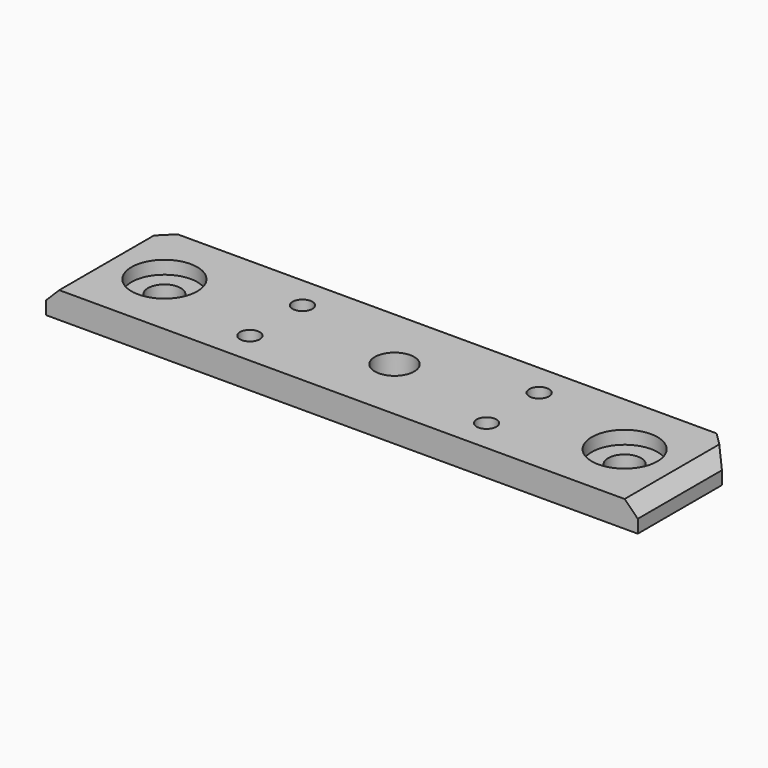
from build123d import *

# Parameters (mm, degrees)
CYLINDER1669_R     = 2.5
CYLINDER1669_DEPTH = 20
CYLINDER1668_R     = 2.5
CYLINDER1668_DEPTH = 20
CYLINDER1667_R     = 5
CYLINDER1667_DEPTH = 5
CYLINDER1666_R     = 5
CYLINDER1666_DEPTH = 5
CYLINDER1647_R     = 1.5
CYLINDER1647_DEPTH = 60
CYLINDER1648_R     = 1.5
CYLINDER1648_DEPTH = 60
CYLINDER1649_R     = 1.5
CYLINDER1649_DEPTH = 60
CYLINDER1646_R     = 1.5
CYLINDER1646_DEPTH = 60
CYLINDER1619_R     = 3
CYLINDER1619_DEPTH = 48
BOX644_W           = 90
BOX644_H           = 20
BOX644_DEPTH       = 4
CHAMFER042_SIZE    = 4
CHAMFER043_SIZE    = 2


with BuildPart() as obj1:
    # Cylinder1669 → Cylinder1669 (new body)
    with BuildSketch(Plane(origin=(-35, 90, -59), x_dir=(1, 0, 0), z_dir=(0, 0, 1))):
        Circle(CYLINDER1669_R)
    extrude(amount=CYLINDER1669_DEPTH)


with BuildPart() as compound819:
    # Cylinder1668 → Cylinder1668 (new body)
    with BuildSketch(Plane(origin=(35, 90, -59), x_dir=(1, 0, 0), z_dir=(0, 0, 1))):
        Circle(CYLINDER1668_R)
    extrude(amount=CYLINDER1668_DEPTH)

    # Compound819: union obj1
    add(obj1.part)


with BuildPart() as compound819_1:
    # Compound819 placement: moved
    add(compound819.part.moved(Location((0, 0, 18))))


with BuildPart() as obj2:
    # Cylinder1667 → Cylinder1667 (new body)
    with BuildSketch(Plane(origin=(-35, 90, -59), x_dir=(1, 0, 0), z_dir=(0, 0, 1))):
        Circle(CYLINDER1667_R)
    extrude(amount=CYLINDER1667_DEPTH)


with BuildPart() as compound818:
    # Cylinder1666 → Cylinder1666 (new body)
    with BuildSketch(Plane(origin=(35, 90, -59), x_dir=(1, 0, 0), z_dir=(0, 0, 1))):
        Circle(CYLINDER1666_R)
    extrude(amount=CYLINDER1666_DEPTH)

    # Compound818: union obj2
    add(obj2.part)


with BuildPart() as compound818_1:
    # Compound818 placement: moved
    add(compound818.part.moved(Location((0, 0, 29))))


with BuildPart() as obj3:
    # Cylinder1647 → Cylinder1647 (new body)
    with BuildSketch(Plane(origin=(18, 85, -57), x_dir=(1, 0, 0), z_dir=(0, 0, 1))):
        Circle(CYLINDER1647_R)
    extrude(amount=CYLINDER1647_DEPTH)


with BuildPart() as obj4:
    # Cylinder1648 → Cylinder1648 (new body)
    with BuildSketch(Plane(origin=(-18, 85, -57), x_dir=(1, 0, 0), z_dir=(0, 0, 1))):
        Circle(CYLINDER1648_R)
    extrude(amount=CYLINDER1648_DEPTH)


with BuildPart() as obj5:
    # Cylinder1649 → Cylinder1649 (new body)
    with BuildSketch(Plane(origin=(-18, 95, -57), x_dir=(1, 0, 0), z_dir=(0, 0, 1))):
        Circle(CYLINDER1649_R)
    extrude(amount=CYLINDER1649_DEPTH)


with BuildPart() as compound812:
    # Cylinder1646 → Cylinder1646 (new body)
    with BuildSketch(Plane(origin=(18, 95, -57), x_dir=(1, 0, 0), z_dir=(0, 0, 1))):
        Circle(CYLINDER1646_R)
    extrude(amount=CYLINDER1646_DEPTH)

    # Compound812: union obj3, obj4, obj5
    add(obj3.part)
    add(obj4.part)
    add(obj5.part)


with BuildPart() as obj6:
    # Cylinder1619 → Cylinder1619 (new body)
    with BuildSketch(Plane(origin=(0, 90, -55), x_dir=(1, 0, 0), z_dir=(0, 0, 1))):
        Circle(CYLINDER1619_R)
    extrude(amount=CYLINDER1619_DEPTH)


with BuildPart() as chamfer043:
    # Box644 → Box644 (new body)
    with BuildSketch(Plane(origin=(-45, 80, -32), x_dir=(1, 0, 0), z_dir=(0, 0, 1))):
        with Locations((45, 10)):
            Rectangle(BOX644_W, BOX644_H)
    extrude(amount=BOX644_DEPTH)

    # Cut313: cut obj6
    add(obj6.part, mode=Mode.SUBTRACT)

    # Cut324: cut Compound812
    add(compound812.part, mode=Mode.SUBTRACT)

    # Cut331: cut Compound818
    add(compound818_1.part, mode=Mode.SUBTRACT)

    # Cut332: cut Compound819
    add(compound819_1.part, mode=Mode.SUBTRACT)

    # Chamfer042
    chamfer042_edges = [chamfer043.edges().sort_by_distance(p)[0] for p in [
        (-45, 100, -30),
        (45, 100, -30),
    ]]
    chamfer(chamfer042_edges, length=CHAMFER042_SIZE)

    # Chamfer043
    chamfer043_edges = [chamfer043.edges().sort_by_distance(p)[0] for p in [
        (-45, 88, -28),
        (45, 88, -28),
    ]]
    chamfer(chamfer043_edges, length=CHAMFER043_SIZE)


solid = chamfer043.part
